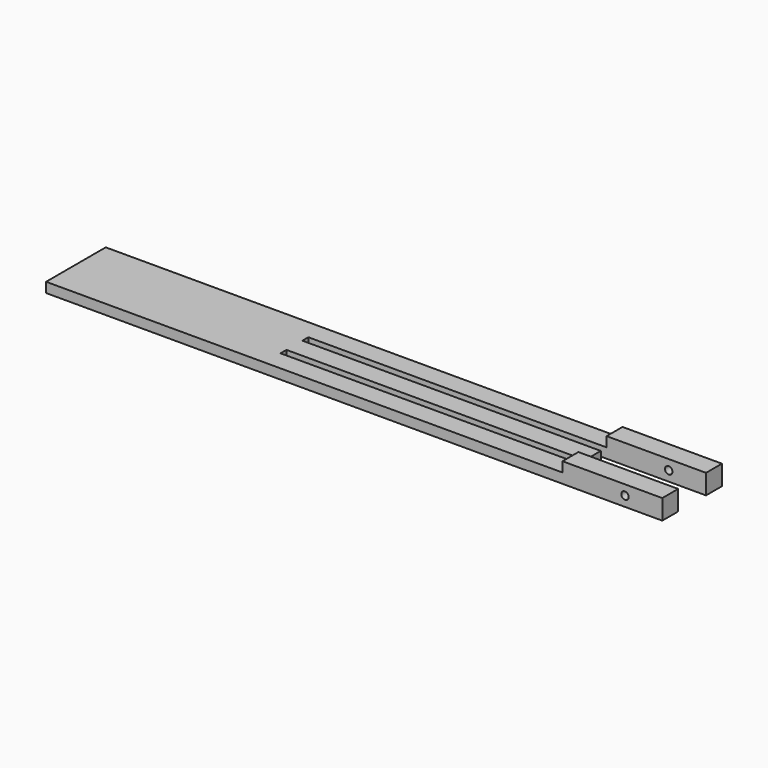
from build123d import *

# Parameters (mm, degrees)
F1_DEPTH = 4
F2_W     = 39.9907242665
F2_H     = 8
F2_W_2   = 40.1504870662
F3_DEPTH = 4
F4_DEPTH = 4
F6_DEPTH = 101


with BuildPart() as f1:
    # F0 (on Top) → F1 (new body)
    with BuildSketch(Plane.XY):
        Polygon((-123.9547070274, -15), (123.9547070274, -15), (123.9547070274, -7), (-36.0452929726, -7), (-36.0452929726, -4), (84.0192064643, -4), (84.0192064643, 4), (83.9637443423, 4), (83.9547070274, 4), (-36.0452929726, 4), (-36.0452929726, 7), (123.9547070274, 7), (123.9547070274, 15), (-123.9547070274, 15), align=None)
    extrude(amount=F1_DEPTH)

    # F2 (on face) → F3 (join)
    with BuildSketch(Plane.XY.offset(4)):
        with Locations((103.9593448941, 11)):
            Rectangle(F2_W, F2_H)
        with Locations((103.8794634943, -11)):
            Rectangle(F2_W_2, F2_H)
    extrude(amount=F3_DEPTH)

    # F2 (on face) → F4 (join)
    with BuildSketch(Plane.XY.offset(4)):
        with Locations((103.9593448941, 11)):
            Rectangle(F2_W, F2_H)
        with Locations((103.8794634943, -11)):
            Rectangle(F2_W_2, F2_H)
    extrude(amount=F4_DEPTH)

    # F5 (on face) → F6 (cut)
    with BuildSketch(Plane.XZ.offset(15)):
        with BuildLine():
            ThreePointArc((110.4547070274, 4), (110.0153671992, 5.0606601718), (108.9547070274, 5.5))
            Line((108.9547070274, 5.5), (108.9547070274, 2.5))
            ThreePointArc((108.9547070274, 2.5), (110.0153671992, 2.9393398282), (110.4547070274, 4))
        make_face()
        with BuildLine():
            Line((108.9547070274, 2.5), (108.9547070274, 5.5))
            ThreePointArc((108.9547070274, 5.5), (107.4547070274, 4), (108.9547070274, 2.5))
        make_face()
    extrude(amount=-F6_DEPTH, mode=Mode.SUBTRACT)


solid = f1.part
